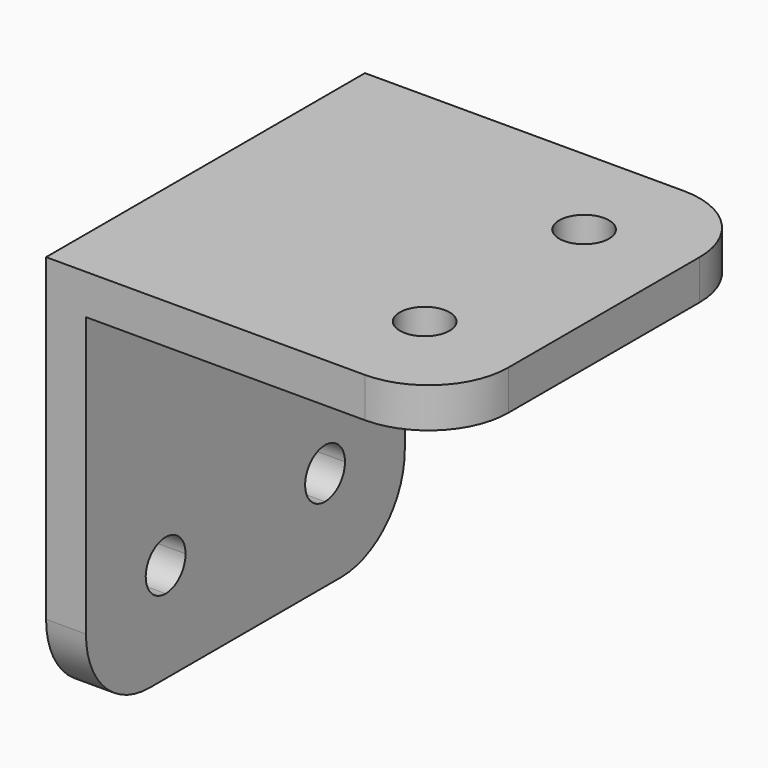
from build123d import *

# Parameters (mm, degrees)
F3_DEPTH = 12.7
F1_R     = 1.5875
F4_DEPTH = 39.37
F5_DEPTH = 8.382
F6_R     = 5.08


with BuildPart() as f3:
    # F0 (on Front) → F3 (new body, symmetric)
    with BuildSketch(Plane.XZ):
        Polygon((0, 25.4), (0, 0), (2.54, 0), (2.54, 22.86), (25.4, 22.86), (25.4, 25.4), align=None)
    extrude(amount=F3_DEPTH, both=True)

    # F1 (on Top) → F4 (cut)
    with BuildSketch(Plane.XY):
        with Locations((19.05, 6.35)):
            Circle(F1_R)
        with Locations((19.05, -6.35)):
            Circle(F1_R)
    extrude(amount=F4_DEPTH, mode=Mode.SUBTRACT)

    # F2 (on Right) → F5 (cut)
    with BuildSketch(Plane.YZ):
        with BuildLine():
            ThreePointArc((7.9375, 6.35), (5.227468, 7.472532), (6.35, 4.7625))
            ThreePointArc((6.35, 4.7625), (7.472532, 5.227468), (7.9375, 6.35))
        make_face()
        with BuildLine():
            ThreePointArc((-4.7625, 6.35), (-7.472532, 7.472532), (-6.35, 4.7625))
            ThreePointArc((-6.35, 4.7625), (-5.227468, 5.227468), (-4.7625, 6.35))
        make_face()
    extrude(amount=F5_DEPTH, mode=Mode.SUBTRACT)

    # F6
    f6_edges = [f3.edges().sort_by_distance(p)[0] for p in [
        (25.4, -12.7, 24.13),
        (25.4, 12.7, 24.13),
        (1.27, -12.7, 0),
        (1.27, 12.7, 0),
    ]]
    fillet(f6_edges, radius=F6_R)


solid = f3.part
